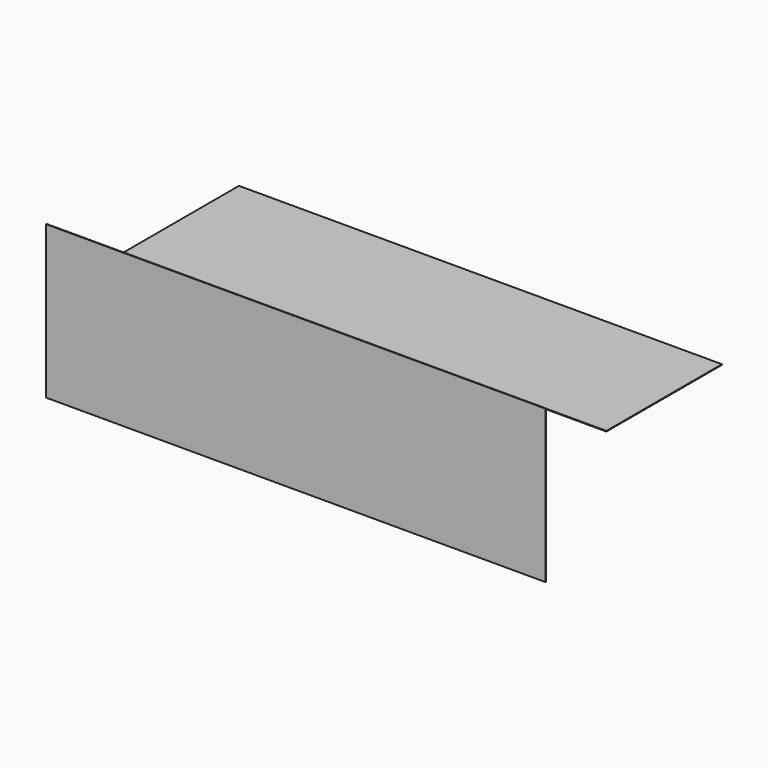
from build123d import *

# Parameters (mm, degrees)
F0_W     = 2405
F0_H     = 735
F1_DEPTH = 3
F4_W     = 2325
F4_H     = 695
F5_DEPTH = 3


with BuildPart() as f1:
    # F0 (on Front) → F1 (new body)
    with BuildSketch(Plane.XZ):
        Rectangle(F0_W, F0_H)
    extrude(amount=F1_DEPTH)


with BuildPart() as f5:
    # F4 (on Top) → F5 (new body)
    with BuildSketch(Plane.XY):
        with Locations((-106.530577, 393.205366)):
            Rectangle(F4_W, F4_H)
    extrude(amount=F5_DEPTH)


with BuildPart() as f5_1:
    # F6: moved
    add(f5.part.moved(Location((0, 500, 0))))


solid = Compound([f1.part, f5_1.part])
